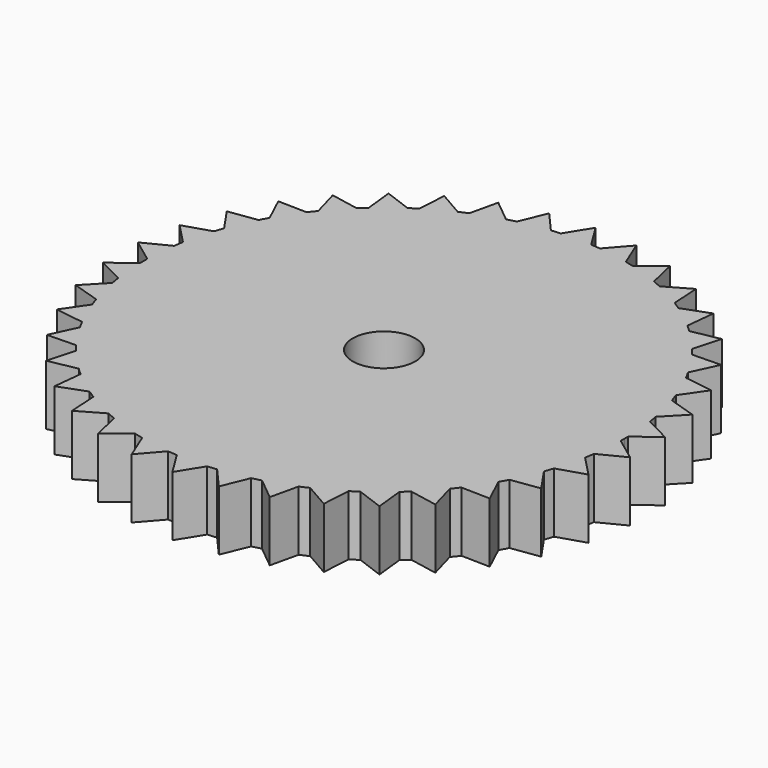
from build123d import *

# Parameters (mm, degrees)
F0_R     = 3.302
F1_DEPTH = 6.35


with BuildPart() as f1:
    # F0 (on Top) → F1 (new body)
    with BuildSketch(Plane.XY):
        with BuildLine():
            ThreePointArc((2.588606, 25.267749), (4.180703, 25.053577), (5.756076, 24.739191))
            Line((5.756076, 24.739191), (4.598773, 27.558935))
            Line((4.598773, 27.558935), (2.588606, 25.267749))
        make_face()
        with BuildLine():
            ThreePointArc((6.712236, 24.497059), (8.247367, 24.023758), (9.749508, 23.454362))
            Line((9.749508, 23.454362), (9.072103, 26.426134))
            Line((9.072103, 26.426134), (6.712236, 24.497059))
        make_face()
        with BuildLine():
            ThreePointArc((10.652773, 23.058153), (12.089064, 22.338633), (13.476998, 21.529759))
            Line((13.476998, 21.529759), (13.29797, 24.572497))
            Line((13.29797, 24.572497), (10.652773, 23.058153))
        make_face()
        with BuildLine():
            ThreePointArc((14.30273, 20.990281), (15.601003, 20.044169), (16.836871, 19.01788))
            Line((16.836871, 19.01788), (17.161103, 22.048586))
            Line((17.161103, 22.048586), (14.30273, 20.990281))
        make_face()
        with BuildLine():
            ThreePointArc((17.562546, 18.349849), (18.687387, 17.202952), (19.737479, 15.987243))
            Line((19.737479, 15.987243), (20.556126, 18.923247))
            Line((20.556126, 18.923247), (17.562546, 18.349849))
        make_face()
        with BuildLine():
            ThreePointArc((20.343302, 15.208881), (21.264029, 13.892483), (22.099699, 12.520516))
            Line((22.099699, 12.520516), (23.390431, 15.281732))
            Line((23.390431, 15.281732), (20.343302, 15.208881))
        make_face()
        with BuildLine():
            ThreePointArc((22.569146, 11.653054), (23.260642, 10.203064), (23.859097, 8.712261))
            Line((23.859097, 8.712261), (25.586707, 11.22337))
            Line((25.586707, 11.22337), (22.569146, 11.653054))
        make_face()
        with BuildLine():
            ThreePointArc((24.179361, 7.779362), (24.622767, 6.235331), (24.967681, 4.666359))
            Line((24.967681, 4.666359), (27.085043, 6.858865))
            Line((27.085043, 6.858865), (24.179361, 7.779362))
        make_face()
        with BuildLine():
            ThreePointArc((25.130027, 3.69347), (25.313246, 2.097515), (25.395212, 0.493171))
            Line((25.395212, 0.493171), (27.844571, 2.307267))
            Line((27.844571, 2.307267), (25.130027, 3.69347))
        make_face()
        with BuildLine():
            Line((27.844571, -2.307267), (25.395212, -0.493171))
            ThreePointArc((25.395212, -0.493171), (25.313246, -2.097515), (25.130027, -3.69347))
            Line((25.130027, -3.69347), (27.844571, -2.307267))
        make_face()
        with BuildLine():
            Line((27.085043, -6.858865), (24.967681, -4.666359))
            ThreePointArc((24.967681, -4.666359), (24.622767, -6.235331), (24.179361, -7.779362))
            Line((24.179361, -7.779362), (27.085043, -6.858865))
        make_face()
        with BuildLine():
            Line((25.586707, -11.22337), (23.859097, -8.712261))
            ThreePointArc((23.859097, -8.712261), (23.260642, -10.203064), (22.569146, -11.653054))
            Line((22.569146, -11.653054), (25.586707, -11.22337))
        make_face()
        with BuildLine():
            Line((23.390431, -15.281732), (22.099699, -12.520516))
            ThreePointArc((22.099699, -12.520516), (21.264029, -13.892483), (20.343302, -15.208881))
            Line((20.343302, -15.208881), (23.390431, -15.281732))
        make_face()
        with BuildLine():
            Line((20.556126, -18.923247), (19.737479, -15.987243))
            ThreePointArc((19.737479, -15.987243), (18.687387, -17.202952), (17.562546, -18.349849))
            Line((17.562546, -18.349849), (20.556126, -18.923247))
        make_face()
        with BuildLine():
            Line((17.161103, -22.048586), (16.836871, -19.01788))
            ThreePointArc((16.836871, -19.01788), (15.601003, -20.044169), (14.30273, -20.990281))
            Line((14.30273, -20.990281), (17.161103, -22.048586))
        make_face()
        with BuildLine():
            Line((13.29797, -24.572497), (13.476998, -21.529759))
            ThreePointArc((13.476998, -21.529759), (12.089064, -22.338633), (10.652773, -23.058153))
            Line((10.652773, -23.058153), (13.29797, -24.572497))
        make_face()
        with BuildLine():
            Line((9.072103, -26.426134), (9.749508, -23.454362))
            ThreePointArc((9.749508, -23.454362), (8.247367, -24.023758), (6.712236, -24.497059))
            Line((6.712236, -24.497059), (9.072103, -26.426134))
        make_face()
        with BuildLine():
            Line((-27.085043, -6.858865), (-24.179361, -7.779362))
            ThreePointArc((-24.179361, -7.779362), (-24.622767, -6.235331), (-24.967681, -4.666359))
            Line((-24.967681, -4.666359), (-27.085043, -6.858865))
        make_face()
        with BuildLine():
            Line((-25.586707, -11.22337), (-22.569146, -11.653054))
            ThreePointArc((-22.569146, -11.653054), (-23.260642, -10.203064), (-23.859097, -8.712261))
            Line((-23.859097, -8.712261), (-25.586707, -11.22337))
        make_face()
        with BuildLine():
            Line((-23.390431, -15.281732), (-20.343302, -15.208881))
            ThreePointArc((-20.343302, -15.208881), (-21.264029, -13.892483), (-22.099699, -12.520516))
            Line((-22.099699, -12.520516), (-23.390431, -15.281732))
        make_face()
        with BuildLine():
            Line((-20.556126, -18.923247), (-17.562546, -18.349849))
            ThreePointArc((-17.562546, -18.349849), (-18.687387, -17.202952), (-19.737479, -15.987243))
            Line((-19.737479, -15.987243), (-20.556126, -18.923247))
        make_face()
        with BuildLine():
            ThreePointArc((-23.859097, 8.712261), (-23.260642, 10.203064), (-22.569146, 11.653054))
            Line((-22.569146, 11.653054), (-25.586707, 11.22337))
            Line((-25.586707, 11.22337), (-23.859097, 8.712261))
        make_face()
        with BuildLine():
            ThreePointArc((-24.967681, 4.666359), (-24.622767, 6.235331), (-24.179361, 7.779362))
            Line((-24.179361, 7.779362), (-27.085043, 6.858865))
            Line((-27.085043, 6.858865), (-24.967681, 4.666359))
        make_face()
        with BuildLine():
            ThreePointArc((-22.099699, 12.520516), (-21.264029, 13.892483), (-20.343302, 15.208881))
            Line((-20.343302, 15.208881), (-23.390431, 15.281732))
            Line((-23.390431, 15.281732), (-22.099699, 12.520516))
        make_face()
        with BuildLine():
            ThreePointArc((-9.749508, 23.454362), (-8.247367, 24.023758), (-6.712236, 24.497059))
            Line((-6.712236, 24.497059), (-9.072103, 26.426134))
            Line((-9.072103, 26.426134), (-9.749508, 23.454362))
        make_face()
        with BuildLine():
            ThreePointArc((-16.836871, 19.01788), (-15.601003, 20.044169), (-14.30273, 20.990281))
            Line((-14.30273, 20.990281), (-17.161103, 22.048586))
            Line((-17.161103, 22.048586), (-16.836871, 19.01788))
        make_face()
        with BuildLine():
            Line((-17.161103, -22.048586), (-14.30273, -20.990281))
            ThreePointArc((-14.30273, -20.990281), (-15.601003, -20.044169), (-16.836871, -19.01788))
            Line((-16.836871, -19.01788), (-17.161103, -22.048586))
        make_face()
        with BuildLine():
            ThreePointArc((-25.395212, 0.493171), (-25.313246, 2.097515), (-25.130027, 3.69347))
            Line((-25.130027, 3.69347), (-27.844571, 2.307267))
            Line((-27.844571, 2.307267), (-25.395212, 0.493171))
        make_face()
        with BuildLine():
            Line((-13.29797, -24.572497), (-10.652773, -23.058153))
            ThreePointArc((-10.652773, -23.058153), (-12.089064, -22.338633), (-13.476998, -21.529759))
            Line((-13.476998, -21.529759), (-13.29797, -24.572497))
        make_face()
        with BuildLine():
            Line((-27.844571, -2.307267), (-25.130027, -3.69347))
            ThreePointArc((-25.130027, -3.69347), (-25.313246, -2.097515), (-25.395212, -0.493171))
            Line((-25.395212, -0.493171), (-27.844571, -2.307267))
        make_face()
        with BuildLine():
            Line((-4.598773, -27.558935), (-2.588606, -25.267749))
            ThreePointArc((-2.588606, -25.267749), (-4.180703, -25.053577), (-5.756076, -24.739191))
            Line((-5.756076, -24.739191), (-4.598773, -27.558935))
        make_face()
        with BuildLine():
            Line((0, -27.94), (1.605634, -25.3492))
            ThreePointArc((1.605634, -25.3492), (0, -25.4), (-1.605634, -25.3492))
            Line((-1.605634, -25.3492), (0, -27.94))
        make_face()
        with BuildLine():
            Line((4.598773, -27.558935), (5.756076, -24.739191))
            ThreePointArc((5.756076, -24.739191), (4.180703, -25.053577), (2.588606, -25.267749))
            Line((2.588606, -25.267749), (4.598773, -27.558935))
        make_face()
        with BuildLine():
            ThreePointArc((-19.737479, 15.987243), (-18.687387, 17.202952), (-17.562546, 18.349849))
            Line((-17.562546, 18.349849), (-20.556126, 18.923247))
            Line((-20.556126, 18.923247), (-19.737479, 15.987243))
        make_face()
        with BuildLine():
            ThreePointArc((-5.756076, 24.739191), (-4.180703, 25.053577), (-2.588606, 25.267749))
            Line((-2.588606, 25.267749), (-4.598773, 27.558935))
            Line((-4.598773, 27.558935), (-5.756076, 24.739191))
        make_face()
        with BuildLine():
            ThreePointArc((-13.476998, 21.529759), (-12.089064, 22.338633), (-10.652773, 23.058153))
            Line((-10.652773, 23.058153), (-13.29797, 24.572497))
            Line((-13.29797, 24.572497), (-13.476998, 21.529759))
        make_face()
        with BuildLine():
            Line((-9.072103, -26.426134), (-6.712236, -24.497059))
            ThreePointArc((-6.712236, -24.497059), (-8.247367, -24.023758), (-9.749508, -23.454362))
            Line((-9.749508, -23.454362), (-9.072103, -26.426134))
        make_face()
        with BuildLine():
            ThreePointArc((0, 25.4), (0.803219, 25.387297), (1.605634, 25.3492))
            Line((1.605634, 25.3492), (0, 27.94))
            Line((0, 27.94), (0, 25.4))
        make_face()
        with BuildLine():
            ThreePointArc((-1.605634, 25.3492), (-0.803219, 25.387297), (0, 25.4))
            Line((0, 25.4), (0, 27.94))
            Line((0, 27.94), (-1.605634, 25.3492))
        make_face()
        with BuildLine():
            ThreePointArc((25.395212, -0.493171), (25.398803, -0.246597), (25.4, 0))
            ThreePointArc((25.4, 0), (25.398803, 0.246597), (25.395212, 0.493171))
            ThreePointArc((25.395212, 0.493171), (25.313246, 2.097515), (25.130027, 3.69347))
            ThreePointArc((25.130027, 3.69347), (25.053577, 4.180703), (24.967681, 4.666359))
            ThreePointArc((24.967681, 4.666359), (24.622767, 6.235331), (24.179361, 7.779362))
            ThreePointArc((24.179361, 7.779362), (24.023758, 8.247367), (23.859097, 8.712261))
            ThreePointArc((23.859097, 8.712261), (23.260642, 10.203064), (22.569146, 11.653054))
            ThreePointArc((22.569146, 11.653054), (22.338633, 12.089064), (22.099699, 12.520516))
            ThreePointArc((22.099699, 12.520516), (21.264029, 13.892483), (20.343302, 15.208881))
            ThreePointArc((20.343302, 15.208881), (20.044169, 15.601003), (19.737479, 15.987243))
            ThreePointArc((19.737479, 15.987243), (18.687387, 17.202952), (17.562546, 18.349849))
            ThreePointArc((17.562546, 18.349849), (17.202952, 18.687387), (16.836871, 19.01788))
            ThreePointArc((16.836871, 19.01788), (15.601003, 20.044169), (14.30273, 20.990281))
            ThreePointArc((14.30273, 20.990281), (13.892483, 21.264029), (13.476998, 21.529759))
            ThreePointArc((13.476998, 21.529759), (12.089064, 22.338633), (10.652773, 23.058153))
            ThreePointArc((10.652773, 23.058153), (10.203064, 23.260642), (9.749508, 23.454362))
            ThreePointArc((9.749508, 23.454362), (8.247367, 24.023758), (6.712236, 24.497059))
            ThreePointArc((6.712236, 24.497059), (6.235331, 24.622767), (5.756076, 24.739191))
            ThreePointArc((5.756076, 24.739191), (4.180703, 25.053577), (2.588606, 25.267749))
            ThreePointArc((2.588606, 25.267749), (2.097515, 25.313246), (1.605634, 25.3492))
            ThreePointArc((1.605634, 25.3492), (0.803219, 25.387297), (0, 25.4))
            ThreePointArc((0, 25.4), (-0.803219, 25.387297), (-1.605634, 25.3492))
            ThreePointArc((-1.605634, 25.3492), (-2.097515, 25.313246), (-2.588606, 25.267749))
            ThreePointArc((-2.588606, 25.267749), (-4.180703, 25.053577), (-5.756076, 24.739191))
            ThreePointArc((-5.756076, 24.739191), (-6.235331, 24.622767), (-6.712236, 24.497059))
            ThreePointArc((-6.712236, 24.497059), (-8.247367, 24.023758), (-9.749508, 23.454362))
            ThreePointArc((-9.749508, 23.454362), (-10.203064, 23.260642), (-10.652773, 23.058153))
            ThreePointArc((-10.652773, 23.058153), (-12.089064, 22.338633), (-13.476998, 21.529759))
            ThreePointArc((-13.476998, 21.529759), (-13.892483, 21.264029), (-14.30273, 20.990281))
            ThreePointArc((-14.30273, 20.990281), (-15.601003, 20.044169), (-16.836871, 19.01788))
            ThreePointArc((-16.836871, 19.01788), (-17.202952, 18.687387), (-17.562546, 18.349849))
            ThreePointArc((-17.562546, 18.349849), (-18.687387, 17.202952), (-19.737479, 15.987243))
            ThreePointArc((-19.737479, 15.987243), (-20.044169, 15.601003), (-20.343302, 15.208881))
            ThreePointArc((-20.343302, 15.208881), (-21.264029, 13.892483), (-22.099699, 12.520516))
            ThreePointArc((-22.099699, 12.520516), (-22.338633, 12.089064), (-22.569146, 11.653054))
            ThreePointArc((-22.569146, 11.653054), (-23.260642, 10.203064), (-23.859097, 8.712261))
            ThreePointArc((-23.859097, 8.712261), (-24.023758, 8.247367), (-24.179361, 7.779362))
            ThreePointArc((-24.179361, 7.779362), (-24.622767, 6.235331), (-24.967681, 4.666359))
            ThreePointArc((-24.967681, 4.666359), (-25.053577, 4.180703), (-25.130027, 3.69347))
            ThreePointArc((-25.130027, 3.69347), (-25.313246, 2.097515), (-25.395212, 0.493171))
            ThreePointArc((-25.395212, 0.493171), (-25.4, 0), (-25.395212, -0.493171))
            ThreePointArc((-25.395212, -0.493171), (-25.313246, -2.097515), (-25.130027, -3.69347))
            ThreePointArc((-25.130027, -3.69347), (-25.053577, -4.180703), (-24.967681, -4.666359))
            ThreePointArc((-24.967681, -4.666359), (-24.622767, -6.235331), (-24.179361, -7.779362))
            ThreePointArc((-24.179361, -7.779362), (-24.023758, -8.247367), (-23.859097, -8.712261))
            ThreePointArc((-23.859097, -8.712261), (-23.260642, -10.203064), (-22.569146, -11.653054))
            ThreePointArc((-22.569146, -11.653054), (-22.338633, -12.089064), (-22.099699, -12.520516))
            ThreePointArc((-22.099699, -12.520516), (-21.264029, -13.892483), (-20.343302, -15.208881))
            ThreePointArc((-20.343302, -15.208881), (-20.044169, -15.601003), (-19.737479, -15.987243))
            ThreePointArc((-19.737479, -15.987243), (-18.687387, -17.202952), (-17.562546, -18.349849))
            ThreePointArc((-17.562546, -18.349849), (-17.202952, -18.687387), (-16.836871, -19.01788))
            ThreePointArc((-16.836871, -19.01788), (-15.601003, -20.044169), (-14.30273, -20.990281))
            ThreePointArc((-14.30273, -20.990281), (-13.892483, -21.264029), (-13.476998, -21.529759))
            ThreePointArc((-13.476998, -21.529759), (-12.089064, -22.338633), (-10.652773, -23.058153))
            ThreePointArc((-10.652773, -23.058153), (-10.203064, -23.260642), (-9.749508, -23.454362))
            ThreePointArc((-9.749508, -23.454362), (-8.247367, -24.023758), (-6.712236, -24.497059))
            ThreePointArc((-6.712236, -24.497059), (-6.235331, -24.622767), (-5.756076, -24.739191))
            ThreePointArc((-5.756076, -24.739191), (-4.180703, -25.053577), (-2.588606, -25.267749))
            ThreePointArc((-2.588606, -25.267749), (-2.097515, -25.313246), (-1.605634, -25.3492))
            ThreePointArc((-1.605634, -25.3492), (0, -25.4), (1.605634, -25.3492))
            ThreePointArc((1.605634, -25.3492), (2.097515, -25.313246), (2.588606, -25.267749))
            ThreePointArc((2.588606, -25.267749), (4.180703, -25.053577), (5.756076, -24.739191))
            ThreePointArc((5.756076, -24.739191), (6.235331, -24.622767), (6.712236, -24.497059))
            ThreePointArc((6.712236, -24.497059), (8.247367, -24.023758), (9.749508, -23.454362))
            ThreePointArc((9.749508, -23.454362), (10.203064, -23.260642), (10.652773, -23.058153))
            ThreePointArc((10.652773, -23.058153), (12.089064, -22.338633), (13.476998, -21.529759))
            ThreePointArc((13.476998, -21.529759), (13.892483, -21.264029), (14.30273, -20.990281))
            ThreePointArc((14.30273, -20.990281), (15.601003, -20.044169), (16.836871, -19.01788))
            ThreePointArc((16.836871, -19.01788), (17.202952, -18.687387), (17.562546, -18.349849))
            ThreePointArc((17.562546, -18.349849), (18.687387, -17.202952), (19.737479, -15.987243))
            ThreePointArc((19.737479, -15.987243), (20.044169, -15.601003), (20.343302, -15.208881))
            ThreePointArc((20.343302, -15.208881), (21.264029, -13.892483), (22.099699, -12.520516))
            ThreePointArc((22.099699, -12.520516), (22.338633, -12.089064), (22.569146, -11.653054))
            ThreePointArc((22.569146, -11.653054), (23.260642, -10.203064), (23.859097, -8.712261))
            ThreePointArc((23.859097, -8.712261), (24.023758, -8.247367), (24.179361, -7.779362))
            ThreePointArc((24.179361, -7.779362), (24.622767, -6.235331), (24.967681, -4.666359))
            ThreePointArc((24.967681, -4.666359), (25.053577, -4.180703), (25.130027, -3.69347))
            ThreePointArc((25.130027, -3.69347), (25.313246, -2.097515), (25.395212, -0.493171))
        make_face()
        Circle(F0_R, mode=Mode.SUBTRACT)
    extrude(amount=F1_DEPTH)


solid = f1.part
